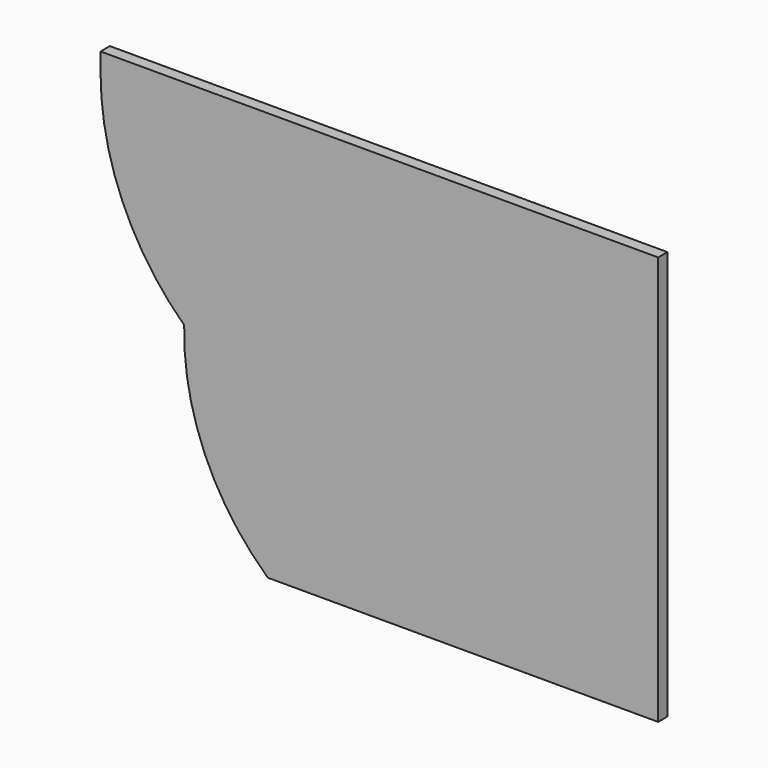
from build123d import *

# Parameters (mm, degrees)
F1_DEPTH = 15.875


with BuildPart() as f1:
    # F0 (on Front) → F1 (new body)
    with BuildSketch(Plane.XZ):
        with BuildLine():
            Line((702.561291, 25.4), (-59.438709, 25.4))
            Line((-59.438709, 25.4), (-59.438709, 0))
            ThreePointArc((-59.438709, 0), (-29.659824, -145.080478), (54.861291, -266.7))
            ThreePointArc((54.861291, -266.7), (82.960432, -412.500368), (169.161291, -533.4))
            Line((169.161291, -533.4), (702.561291, -533.4))
            Line((702.561291, -533.4), (702.561291, 25.4))
        make_face()
    extrude(amount=F1_DEPTH)


solid = f1.part
